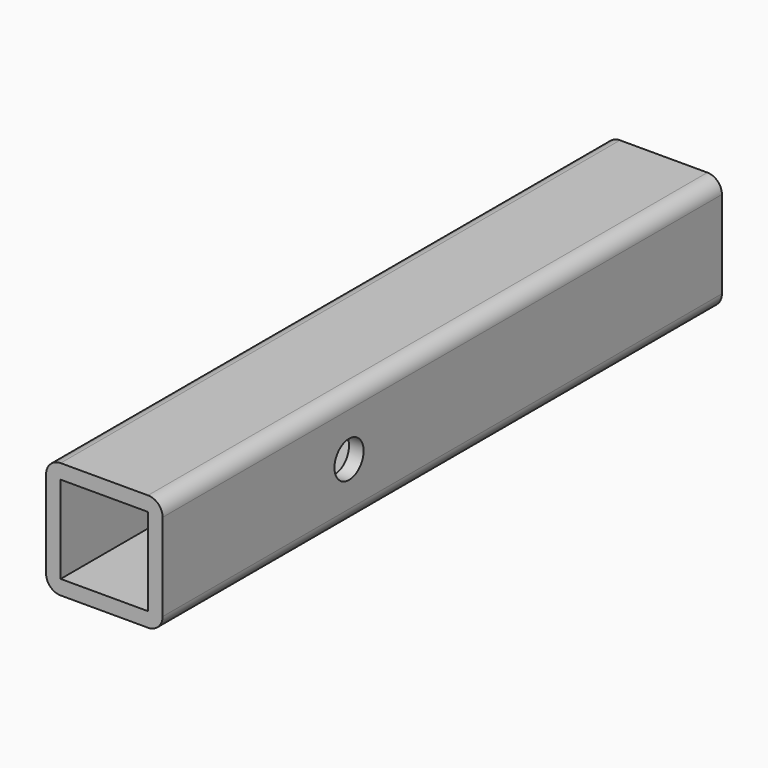
from build123d import *

# Parameters (mm, degrees)
F1_DEPTH = 304.8
F2_W     = 38.1
F2_H     = 38.1
F3_DEPTH = 304.8
F4_R     = 7.9375
F5_DEPTH = 50.8


with BuildPart() as f1:
    # F0 (on Front) → F1 (new body)
    with BuildSketch(Plane.XZ):
        with BuildLine():
            Line((-44.45, 0), (-6.35, 0))
            ThreePointArc((-6.35, 0), (-1.859872, 1.859872), (0, 6.35))
            Line((0, 6.35), (0, 44.45))
            ThreePointArc((0, 44.45), (-1.859872, 48.940128), (-6.35, 50.8))
            Line((-6.35, 50.8), (-44.45, 50.8))
            ThreePointArc((-44.45, 50.8), (-48.940128, 48.940128), (-50.8, 44.45))
            Line((-50.8, 44.45), (-50.8, 6.35))
            ThreePointArc((-50.8, 6.35), (-48.940128, 1.859872), (-44.45, 0))
        make_face()
    extrude(amount=F1_DEPTH)

    # F2 (on face) → F3 (cut)
    with BuildSketch(Plane.XZ.offset(304.8)):
        with Locations((-25.4, 25.4)):
            Rectangle(F2_W, F2_H)
    extrude(amount=-F3_DEPTH, mode=Mode.SUBTRACT)

    # F4 (on face) → F5 (cut)
    with BuildSketch(Plane.YZ):
        with Locations((-203.2, 25.4)):
            Circle(F4_R)
    extrude(amount=-F5_DEPTH, mode=Mode.SUBTRACT)


solid = f1.part
